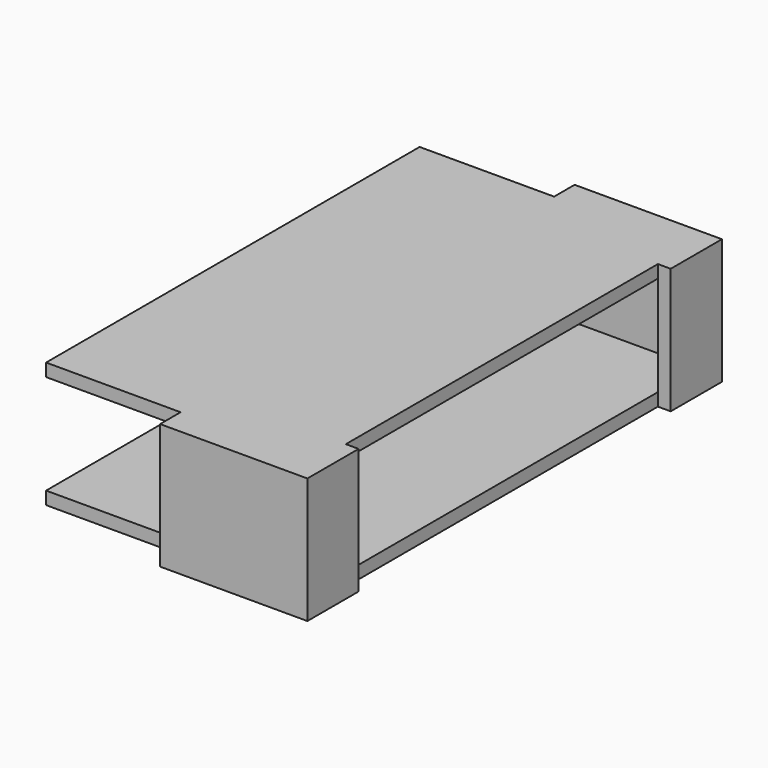
from build123d import *

# Parameters (mm, degrees)
F0_W      = 18
F0_H      = 15.6
F0_H_2    = 2
F1_DEPTH  = 2
F2_W      = 18
F2_H      = 2
F3_DEPTH  = 76.9
F4_W      = 18
F4_H      = 19.6
F5_DEPTH  = 2
F6_W      = 72.9
F6_H      = 2
F7_DEPTH  = 21
F8_W      = 80.9
F8_H      = 19.6
F8_W_2    = 76.9
F8_H_2    = 15.6
F9_DEPTH  = 3
F11_DEPTH = 2
F12_W     = 2
F12_H     = 19.6
F13_DEPTH = 8
F14_W     = 2
F14_H     = 19.6
F15_DEPTH = 8


with BuildPart() as f1:
    # F0 (on Front) → F1 (new body)
    with BuildSketch(Plane.XZ):
        with Locations((2.132421, 7.8)):
            Rectangle(F0_W, F0_H)
        with Locations((2.132421, -1)):
            Rectangle(F0_W, F0_H_2)
        with Locations((2.132421, 16.6)):
            Rectangle(F0_W, F0_H_2)
    extrude(amount=F1_DEPTH)

    # F2 (on face) → F3 (join)
    with BuildSketch(Plane.XZ.offset(2)):
        with Locations((2.132421, 16.6)):
            Rectangle(F2_W, F2_H)
        with Locations((2.132421, -1)):
            Rectangle(F2_W, F2_H)
    extrude(amount=F3_DEPTH)

    # F4 (on face) → F5 (join)
    with BuildSketch(Plane.XZ.offset(78.9)):
        with Locations((2.132421, 7.8)):
            Rectangle(F4_W, F4_H)
    extrude(amount=F5_DEPTH)

    # F6 (on face) → F7 (join)
    with BuildSketch(Plane(origin=(-6.867579, 0, 0), x_dir=(0, -1, 0), z_dir=(-1, 0, 0))):
        with Locations((40.45, 16.6)):
            Rectangle(F6_W, F6_H)
        with Locations((40.45, -1)):
            Rectangle(F6_W, F6_H)
    extrude(amount=F7_DEPTH)

    # F8 (on face) → F9 (join)
    with BuildSketch(Plane.YZ.offset(11.132421)):
        with Locations((-40.45, 7.8)):
            Rectangle(F8_W, F8_H)
        with Locations((-40.45, 7.8)):
            Rectangle(F8_W_2, F8_H_2, mode=Mode.SUBTRACT)
    extrude(amount=F9_DEPTH)

    # F10 (on face) → F11 (join)
    with BuildSketch(Plane.YZ.offset(14.132421)):
        Polygon((-78.9, -2), (-78.9, 0), (-78.9, 15.6), (-78.9, 17.6), (-80.9, 17.6), (-80.9, -2), align=None)
        Polygon((-2, -2), (0, -2), (0, 17.6), (-2, 17.6), (-2, 0), align=None)
    extrude(amount=F11_DEPTH)

    # F12 (on face) → F13 (join)
    with BuildSketch(Plane(origin=(0, -78.9, 0), x_dir=(-1, 0, 0), z_dir=(0, 1, 0))):
        with Locations((-15.132421, 7.8)):
            Rectangle(F12_W, F12_H)
    extrude(amount=F13_DEPTH)

    # F14 (on face) → F15 (join)
    with BuildSketch(Plane.XZ.offset(2)):
        with Locations((15.132421, 7.8)):
            Rectangle(F14_W, F14_H)
    extrude(amount=F15_DEPTH)


solid = f1.part
